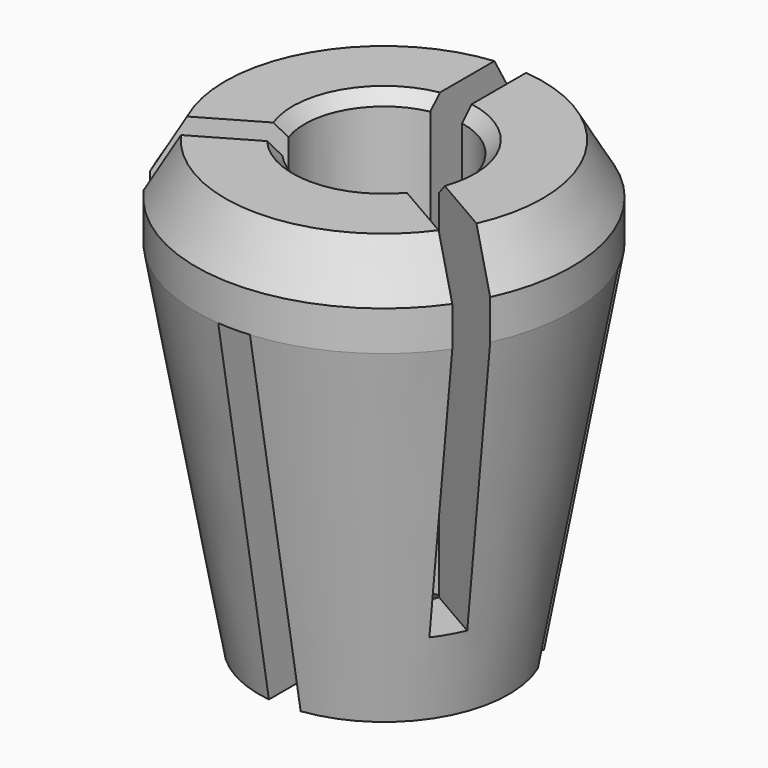
from build123d import *

# Parameters (mm, degrees)
CHAMFER006_SIZE       = 0.3
SKETCH001_W           = 0.8
SKETCH001_H           = 5
POCKET003_DEPTH       = 44.301226966
POLARPATTERN003_COUNT = 3
SKETCH009_W           = 0.8
SKETCH009_H           = 5
POCKET004_DEPTH       = 9
POLARPATTERN004_COUNT = 3


with BuildPart() as part:
    # Sketch008 → Revolution001 (revolve)
    with BuildSketch(Plane.YZ):
        Polygon((-2, 0), (-2, 11.2764224176), (-4, 11.2764224176), (-4.7369428264, 10), (-4.7369428264, 9), (-3.15, 0), align=None)
    revolve(axis=Axis((0, 0, 0), (0, 0, 1)))

    # Chamfer006
    chamfer006_edges = [part.edges().sort_by_distance(p)[0] for p in [
        (0, 2, 11.276422),
        (0, 2, 0),
    ]]
    chamfer(chamfer006_edges, length=CHAMFER006_SIZE)

    # Sketch001 → Pocket003 (cut, through all)
    with BuildSketch(Plane.XY.offset(2)):
        with Locations((0, 2.5)):
            Rectangle(SKETCH001_W, SKETCH001_H)
    pocket003 = extrude(amount=POCKET003_DEPTH, mode=Mode.SUBTRACT)

    # PolarPattern003: Pocket003 ×3 about axis
    polarpattern003_axis = Axis((0, 0, 2), (0, 0, 1))
    for i in range(1, POLARPATTERN003_COUNT):
        add(pocket003.rotate(polarpattern003_axis, i * 360 / POLARPATTERN003_COUNT), mode=Mode.SUBTRACT)

    # Sketch009 → Pocket004 (cut)
    with BuildSketch(Plane.XY):
        with Locations((0, -2.5)):
            Rectangle(SKETCH009_W, SKETCH009_H)
    pocket004 = extrude(amount=POCKET004_DEPTH, mode=Mode.SUBTRACT)

    # PolarPattern004: Pocket004 ×3 about axis
    polarpattern004_axis = Axis((0, 0, 0), (0, 0, 1))
    for i in range(1, POLARPATTERN004_COUNT):
        add(pocket004.rotate(polarpattern004_axis, i * 360 / POLARPATTERN004_COUNT), mode=Mode.SUBTRACT)


with BuildPart() as part_1:
    # Body003 placement: moved
    add(part.part.moved(Location((0, 0, 11.5))))


solid = part_1.part
